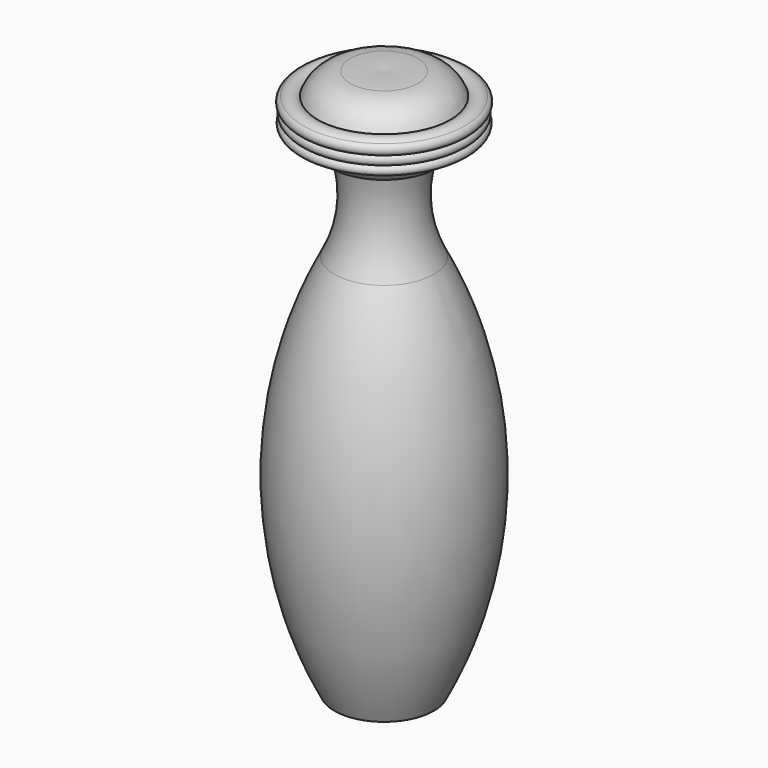
from build123d import *


with BuildPart() as f1:
    # F0 (on Front) → F1 (revolve)
    with BuildSketch(Plane.XZ):
        with BuildLine():
            Line((0, 0), (0, -69.85))
            Line((0, -69.85), (6.35, -69.85))
            ThreePointArc((6.35, -69.85), (12.328956, -45.322415), (6.35, -20.794831))
            ThreePointArc((6.35, -20.794831), (4.701676, -15.085224), (5.373266, -9.180518))
            ThreePointArc((5.373266, -9.180518), (7.378831, -8.275631), (8.462475, -6.360735))
            ThreePointArc((8.462475, -6.360735), (9.401883, -6.488215), (10.34129, -6.360735))
            ThreePointArc((10.34129, -6.360735), (10.720284, -5.79709), (10.34129, -5.233446))
            ThreePointArc((10.34129, -5.233446), (10.639489, -4.669801), (10.34129, -4.106156))
            ThreePointArc((10.34129, -4.106156), (10.774899, -3.44857), (10.34129, -2.790985))
            ThreePointArc((10.34129, -2.790985), (9.370569, -2.412139), (8.399847, -2.790985))
            ThreePointArc((8.399847, -2.790985), (6.795081, -0.758521), (4.319029, 0))
            ThreePointArc((4.319029, 0), (2.159515, 0.092002), (0, 0))
        make_face()
    revolve(axis=Axis((0, 0, -34.925), (0, 0, -1)))


solid = f1.part
